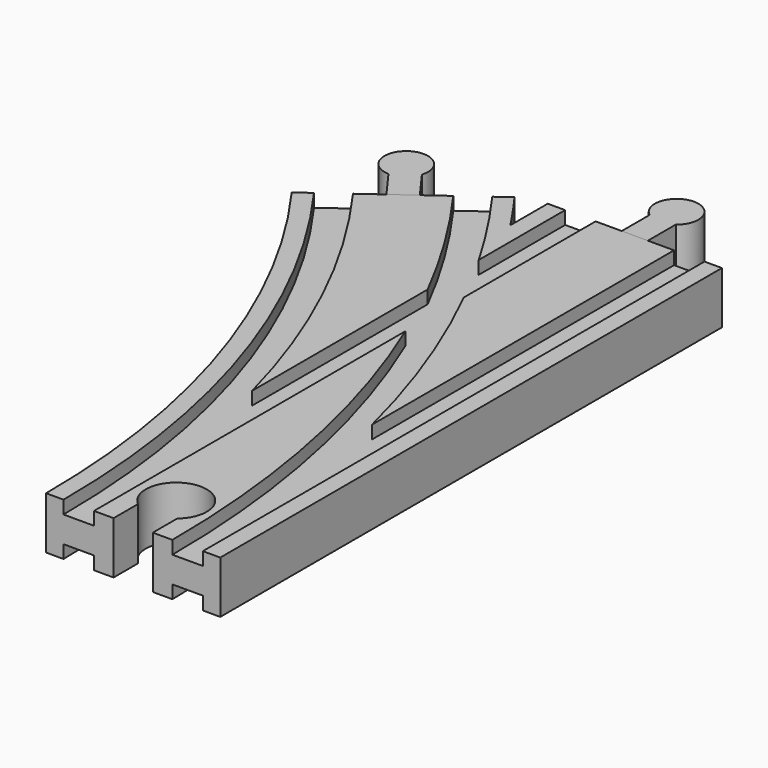
from build123d import *

# Parameters (mm, degrees)
SKETCH004_W       = 7
SKETCH004_H       = 3
SKETCH005_W       = 7
SKETCH005_H       = 3
SKETCH009_W       = 7
SKETCH009_H       = 3
SKETCH010_W       = 7
SKETCH010_H       = 3
POCKET_DEPTH      = 6.001
POCKET_DEPTH_BACK = -6.001
PAD001_DEPTH      = 6
PAD002_DEPTH      = 6


with BuildPart() as body:
    # AdditivePipe: sweep along a path in Sketch002
    with BuildLine(Plane.XY) as additivepipe_path:
        ThreePointArc((0, 0), (-10.865453, 68.601773), (-42.398227, 130.488326))
    # Sketch → AdditivePipe (sweep)
    with BuildSketch(Plane.XZ):
        Polygon((-20, 6), (-20, -6), (-16, -6), (-16, -3), (-9, -3), (-9, -6), (9, -6), (9, -3), (16, -3), (16, -6), (20, -6), (20, 6), (16, 6), (16, 3), (9, 3), (9, 6), (-9, 6), (-9, 3), (-16, 3), (-16, 6), align=None)
    sweep(path=additivepipe_path.line)

    # AdditivePipe001: sweep along a path in Sketch001
    with BuildLine(Plane.XY) as additivepipe001_path:
        Line((0, 0), (0, 144))
    # Sketch → AdditivePipe001 (sweep)
    with BuildSketch(Plane.XZ):
        Polygon((-20, 6), (-20, -6), (-16, -6), (-16, -3), (-9, -3), (-9, -6), (9, -6), (9, -3), (16, -3), (16, -6), (20, -6), (20, 6), (16, 6), (16, 3), (9, 3), (9, 6), (-9, 6), (-9, 3), (-16, 3), (-16, 6), align=None)
    sweep(path=additivepipe001_path.line)

    # SubtractivePipe: sweep along a path in Sketch001
    with BuildLine(Plane.XY) as subtractivepipe_path:
        Line((0, 0), (0, 144))
    # Sketch004 → SubtractivePipe (sweep, cut)
    with BuildSketch(Plane.XZ):
        with Locations((-12.5, 4.5)):
            Rectangle(SKETCH004_W, SKETCH004_H)
    sweep(path=subtractivepipe_path.line, mode=Mode.SUBTRACT)

    # SubtractivePipe001: sweep along a path in Sketch002
    with BuildLine(Plane.XY) as subtractivepipe001_path:
        ThreePointArc((0, 0), (-10.865453, 68.601773), (-42.398227, 130.488326))
    # Sketch004 → SubtractivePipe001 (sweep, cut)
    with BuildSketch(Plane.XZ):
        with Locations((-12.5, 4.5)):
            Rectangle(SKETCH004_W, SKETCH004_H)
    sweep(path=subtractivepipe001_path.line, mode=Mode.SUBTRACT)

    # SubtractivePipe002: sweep along a path in Sketch002
    with BuildLine(Plane.XY) as subtractivepipe002_path:
        ThreePointArc((0, 0), (-10.865453, 68.601773), (-42.398227, 130.488326))
    # Sketch005 (on Face1 of SubtractivePipe001) → SubtractivePipe002 (sweep, cut)
    with BuildSketch(Plane.XZ):
        with Locations((12.5, 4.5)):
            Rectangle(SKETCH005_W, SKETCH005_H)
    sweep(path=subtractivepipe002_path.line, mode=Mode.SUBTRACT)

    # SubtractivePipe003: sweep along a path in Sketch001
    with BuildLine(Plane.XY) as subtractivepipe003_path:
        Line((0, 0), (0, 144))
    # Sketch005 (on Face1 of SubtractivePipe001) → SubtractivePipe003 (sweep, cut)
    with BuildSketch(Plane.XZ):
        with Locations((12.5, 4.5)):
            Rectangle(SKETCH005_W, SKETCH005_H)
    subtractivepipe003 = sweep(path=subtractivepipe003_path.line, mode=Mode.SUBTRACT)

    # Mirrored: SubtractivePipe003 across XY
    add(subtractivepipe003.mirror(Plane.XY), mode=Mode.SUBTRACT)

    # SubtractivePipe004: sweep along a path in Sketch002
    with BuildLine(Plane.XY) as subtractivepipe004_path:
        ThreePointArc((0, 0), (-10.865453, 68.601773), (-42.398227, 130.488326))
    # Sketch009 → SubtractivePipe004 (sweep, cut)
    with BuildSketch(Plane.XZ):
        with Locations((-12.5, -4.5)):
            Rectangle(SKETCH009_W, SKETCH009_H)
    sweep(path=subtractivepipe004_path.line, mode=Mode.SUBTRACT)

    # SubtractivePipe005: sweep along a path in Sketch001
    with BuildLine(Plane.XY) as subtractivepipe005_path:
        Line((0, 0), (0, 144))
    # Sketch009 → SubtractivePipe005 (sweep, cut)
    with BuildSketch(Plane.XZ):
        with Locations((-12.5, -4.5)):
            Rectangle(SKETCH009_W, SKETCH009_H)
    sweep(path=subtractivepipe005_path.line, mode=Mode.SUBTRACT)

    # SubtractivePipe006: sweep along a path in Sketch002
    with BuildLine(Plane.XY) as subtractivepipe006_path:
        ThreePointArc((0, 0), (-10.865453, 68.601773), (-42.398227, 130.488326))
    # Sketch010 (on Face1 of SubtractivePipe005) → SubtractivePipe006 (sweep, cut)
    with BuildSketch(Plane.XZ):
        with Locations((12.5, -4.5)):
            Rectangle(SKETCH010_W, SKETCH010_H)
    sweep(path=subtractivepipe006_path.line, mode=Mode.SUBTRACT)

    # Sketch013 → Pocket (cut, two sides)
    with BuildSketch(Plane.XY) as pocket_sk:
        with BuildLine():
            Line((-4.5, 0), (4.5, 0))
            Line((4.5, 0), (4.5, 7))
            ThreePointArc((4.5, 7), (0, 19.361903), (-4.5, 7))
            Line((-4.5, 0), (-4.5, 7))
        make_face()
    extrude(amount=-POCKET_DEPTH, mode=Mode.SUBTRACT)
    extrude(pocket_sk.sketch, amount=-POCKET_DEPTH_BACK, mode=Mode.SUBTRACT)


with BuildPart() as body002:
    # Sketch011 → Pad001 (new body, symmetric)
    with BuildSketch(Plane.XY):
        with BuildLine():
            Line((-3, 144), (3, 144))
            Line((3, 144), (3, 152))
            ThreePointArc((3, 152), (0, 161), (-3, 152))
            Line((-3, 144), (-3, 152))
        make_face()
    extrude(amount=PAD001_DEPTH, both=True)


with BuildPart() as body003:
    # Sketch012 → Pad002 (new body, symmetric)
    with BuildSketch(Plane.XY):
        with BuildLine():
            Line((-44.825278, 128.72497), (-39.971176, 132.251682))
            Line((-39.971176, 132.251682), (-44.673458, 138.723818))
            ThreePointArc((-44.673458, 138.723818), (-52.390577, 144.241615), (-49.52756, 135.197106))
            Line((-44.825278, 128.72497), (-49.52756, 135.197106))
        make_face()
    extrude(amount=PAD002_DEPTH, both=True)


solid = Compound([body.part, body002.part, body003.part])
